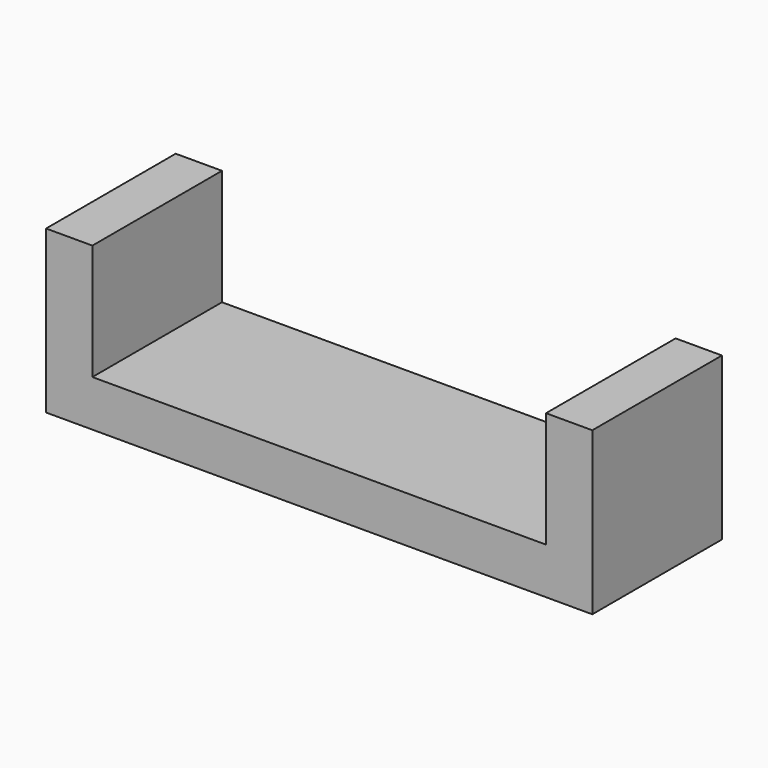
from build123d import *

# Parameters (mm, degrees)
F1_DEPTH = 7


with BuildPart() as f1:
    # F0 (on Front) → F1 (new body)
    with BuildSketch(Plane.XZ):
        Polygon((0, 2), (0, 0), (11.8, 0), (11.8, 7), (9.8, 7), (9.8, 2), align=None)
    extrude(amount=-F1_DEPTH)

    # F2: F1 across plane


with BuildPart() as f1_1:
    add(f1.part)
    add(f1.part.mirror(Plane.YZ))


solid = f1_1.part
